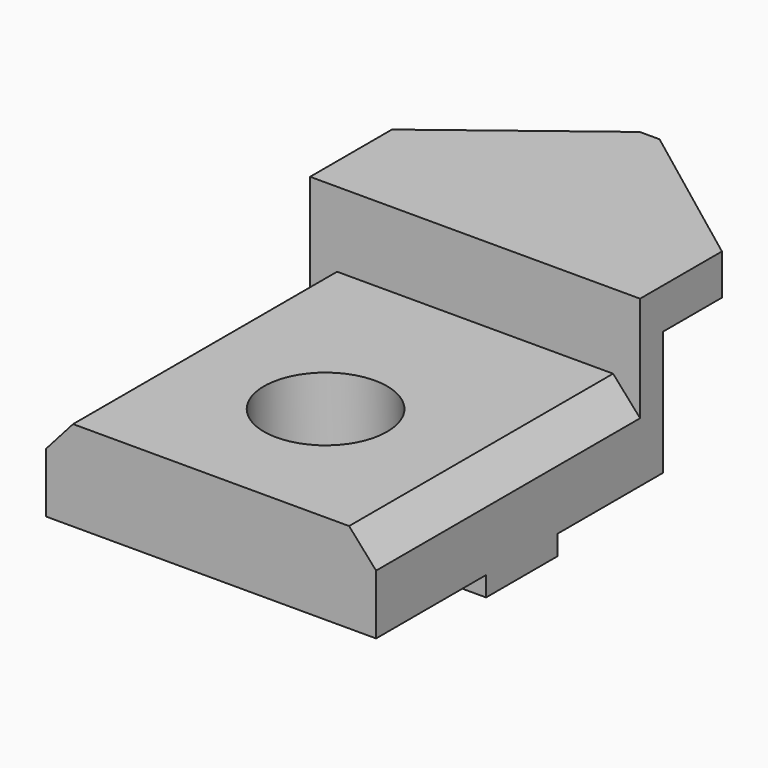
from build123d import *

# Parameters (mm, degrees)
F0_W      = 76.2
F0_H      = 76.2
F1_DEPTH  = 25.4
F0_H_2    = 50.8
F2_DEPTH  = 42.672
F4_DEPTH  = 76.2
F5_R      = 14.224
F6_DEPTH  = 25.4
F7_W      = 31.75
F7_H      = 4.572
F7_W_2    = 74.676
F8_DEPTH  = 96.266
F10_W     = 76.2
F10_H     = 28.702
F11_DEPTH = 44.196
F12_DEPTH = 25.4


with BuildPart() as f1:
    # F0 (on Top) → F1 (new body)
    with BuildSketch(Plane.XY):
        with Locations((2.621409, -8.470273)):
            Rectangle(F0_W, F0_H)
    extrude(amount=F1_DEPTH)

    # F0 (on Top) → F2 (join)
    with BuildSketch(Plane.XY):
        with Locations((2.621409, 55.029727)):
            Rectangle(F0_W, F0_H_2)
    extrude(amount=F2_DEPTH)

    # F3 (on face) → F4 (cut)
    with BuildSketch(Plane.XZ.offset(46.570273)):
        Polygon((40.721409, 25.4), (34.48936, 25.4), (40.721409, 18.365515), align=None)
        Polygon((-35.478591, 18.365515), (-29.246543, 25.4), (-35.478591, 25.4), align=None)
    extrude(amount=-F4_DEPTH, mode=Mode.SUBTRACT)

    # F5 (on face) → F6 (cut)
    with BuildSketch(Plane.XY.offset(25.4)):
        with Locations((2.621409, -13.519656)):
            Circle(F5_R)
    extrude(amount=-F6_DEPTH, mode=Mode.SUBTRACT)

    # F7 (on face) → F8 (cut)
    with BuildSketch(Plane.YZ.offset(40.721409)):
        with Locations((-30.695273, 2.286)):
            Rectangle(F7_W, F7_H)
        with Locations((43.091727, 2.286)):
            Rectangle(F7_W_2, F7_H)
    extrude(amount=-F8_DEPTH, mode=Mode.SUBTRACT)

    # F10 (on face) → F11 (cut)
    with BuildSketch(Plane(origin=(0, 80.429727, 0), x_dir=(-1, 0, 0), z_dir=(0, 1, 0))):
        with Locations((-2.621409, 18.923)):
            Rectangle(F10_W, F10_H)
    extrude(amount=-F11_DEPTH, mode=Mode.SUBTRACT)

    # F9 (on face) → F12 (cut)
    with BuildSketch(Plane.XY.offset(42.672)):
        Polygon((4.572, 80.429727), (40.721409, 53.251727), (40.721409, 80.429727), align=None)
        Polygon((-35.478591, 80.429727), (-35.478591, 53.251727), (0, 80.429727), align=None)
    extrude(amount=-F12_DEPTH, mode=Mode.SUBTRACT)


solid = f1.part
